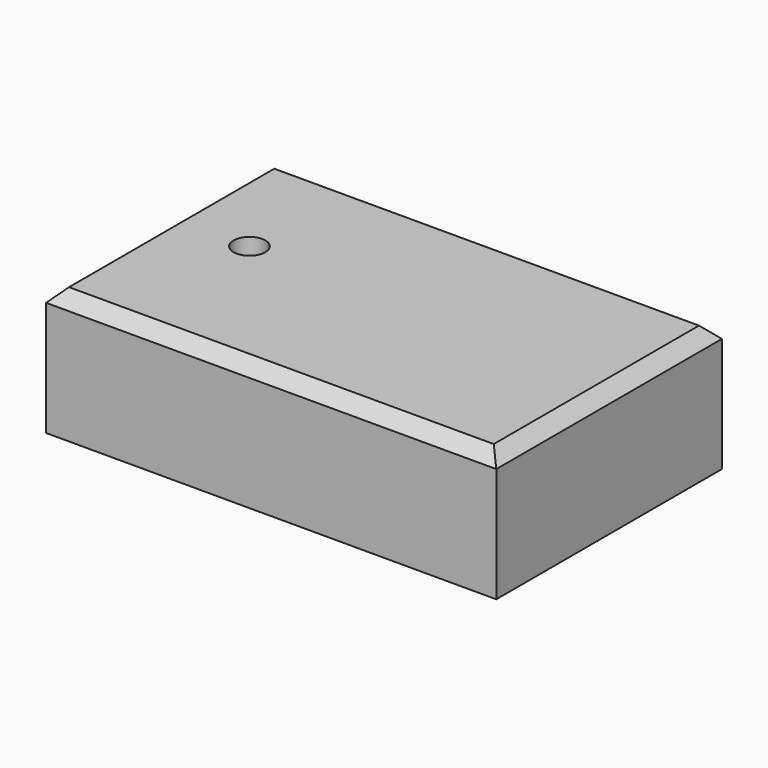
from build123d import *

# Parameters (mm, degrees)
F0_W     = 179.552953
F0_H     = 112.487468
F1_DEPTH = 50.8
F3_D     = 12.7
F4_SIZE  = 5.08
F5_SIZE  = 5.08


with BuildPart() as f1:
    # F0 (on Top) → F1 (new body)
    with BuildSketch(Plane.XY):
        with Locations((-43.503502, 10.809673)):
            Rectangle(F0_W, F0_H)
    extrude(amount=F1_DEPTH)

    # F3 (through all)
    with Locations(Plane.XY.offset(50.8)):
        with Locations((-101.529979, 16.253407)):
            Hole(F3_D / 2)

    # F4
    f4_edges = [f1.edges().sort_by_distance(p)[0] for p in [
        (-43.503502, -45.434061, 50.8),
    ]]
    chamfer(f4_edges, length=F4_SIZE)

    # F5
    f5_edges = [f1.edges().sort_by_distance(p)[0] for p in [
        (46.272974, 13.349673, 50.8),
        (-43.503502, 67.053407, 50.8),
        (-133.279979, 13.349673, 50.8),
    ]]
    chamfer(f5_edges, length=F5_SIZE)


solid = f1.part
